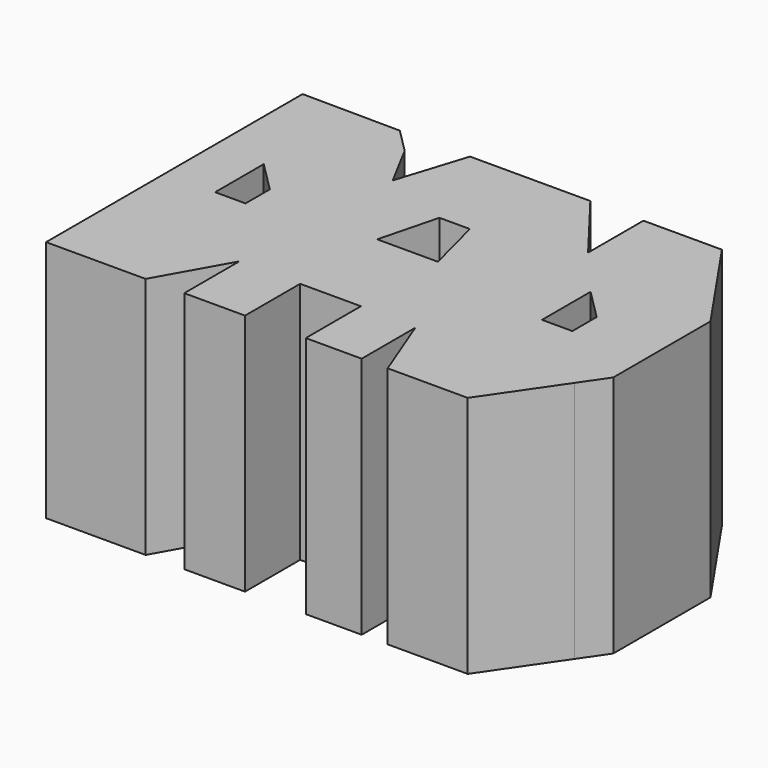
from build123d import *

# Parameters (mm, degrees)
F2_DEPTH = 40
F6_DEPTH = 40.001
F7_DEPTH = 40.001


with BuildPart() as f2:
    # F1 (on face) → F2 (new body)
    with BuildSketch(Plane.XY):
        Polygon((-30.25273, 38.586084), (-30.25273, 0), (-26.359774, 0), (-20, 11.340041), (-20, 0), (-10, 0), (-10, 11.340041), (0, 11.340041), (0, 0), (9.197158, 0), (9.197158, 11.045149), (13.475588, 0), (26.648319, 0), (34.74727, 11.808881), (34.74727, 38.586084), align=None)
        Polygon((-26.625307, 52.630479), (-42.740828, 52.770232), (-42.740828, 0), (-30.25273, 0), (-30.25273, 38.586084), (34.74727, 38.586084), (34.74727, 11.808881), (37.706377, 16.123482), (37.706377, 36.123482), (26.394449, 52.617125), (13.475588, 52.617125), (13.475588, 41.231845), (4.72787, 52.630479), (-15.074225, 52.630479), (-18.680247, 41.231845), (-22.642306, 48.647475), align=None)
    extrude(amount=F2_DEPTH)

    # F5 (on face) → F6 (cut, through all)
    with BuildSketch(Plane.XY.offset(40)):
        Polygon((-34.457395, 34.423446), (-34.457395, 24.423446), (-29.457395, 24.423446), (-29.457395, 29.423446), align=None)
        Polygon((25.539488, 27.917431), (20.539488, 32.917431), (20.539488, 22.917431), (25.539488, 22.917431), align=None)
    extrude(amount=-F6_DEPTH, mode=Mode.SUBTRACT)

    # F4 (on face) → F7 (cut, through all)
    with BuildSketch(Plane.XY.offset(40)):
        Polygon((-7.5, 36.869197), (-10, 27.186738), (0, 27.186738), (-2.5, 36.869197), align=None)
    extrude(amount=-F7_DEPTH, mode=Mode.SUBTRACT)


solid = f2.part
